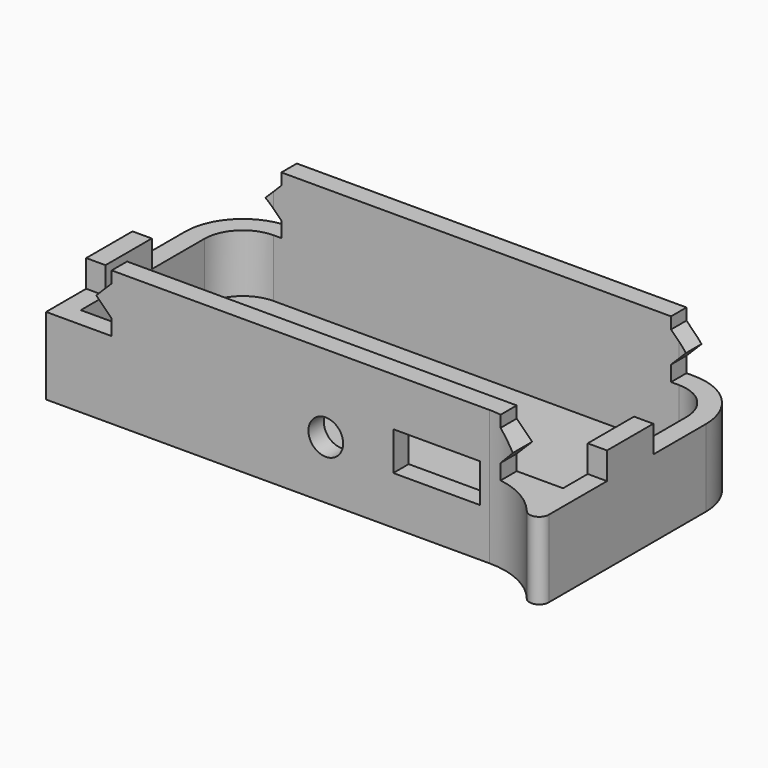
from build123d import *

# Parameters (mm, degrees)
PAD018_DEPTH    = 14
POCKET026_DEPTH = 12
FILLET004_R     = 1
POCKET029_DEPTH = 27.344146
SKETCH088_R     = 1.8
SKETCH088_W     = 9
SKETCH088_H     = 4
POCKET030_DEPTH = 2
SKETCH090_W     = 2
SKETCH090_H     = 6
PAD020_DEPTH    = 2.8


with BuildPart() as part:
    # Sketch079 → Pad018 (new body)
    with BuildSketch(Plane.XY):
        with BuildLine():
            Line((40, 105.4), (82, 105.4))
            ThreePointArc((88, 99.4), (86.242641, 103.642641), (82, 105.4))
            Line((88, 99.4), (88, 73.4))
            ThreePointArc((88, 73.4), (85.656854, 79.056854), (80, 81.4))
            Line((80, 81.4), (34, 81.4))
            Line((34, 81.4), (34, 99.4))
            ThreePointArc((40, 105.4), (35.757359, 103.642641), (34, 99.4))
        make_face()
    extrude(amount=PAD018_DEPTH)

    # Sketch076 → Pocket026 (cut)
    with BuildSketch(Plane.XY.offset(2)):
        with BuildLine():
            Line((40, 103.4), (82, 103.4))
            ThreePointArc((86, 99.4), (84.828427, 102.228427), (82, 103.4))
            Line((86, 99.4), (86, 83.4))
            Line((86, 83.4), (36, 83.4))
            Line((36, 83.4), (36, 99.4))
            ThreePointArc((40, 103.4), (37.171573, 102.228427), (36, 99.4))
        make_face()
    extrude(amount=POCKET026_DEPTH, mode=Mode.SUBTRACT)

    # Fillet004
    fillet004_edges = [part.edges().sort_by_distance(p)[0] for p in [
        (88, 73.4, 7),
    ]]
    fillet(fillet004_edges, radius=FILLET004_R)

    # Sketch087 (on DatumPlane) → Pocket029 (cut, through all)
    with BuildSketch(Plane(origin=(0, 105.4, 0), x_dir=(-1, 0, 0), z_dir=(0, 1, 0))):
        Polygon((-88, 14), (-81.2, 14), (-81.2, 12.8), (-82.8, 11.2), (-81.2, 9.6), (-81.2, 8), (-88, 8), align=None)
        Polygon((-40.8, 14), (-34, 14), (-34, 8), (-40.8, 8), (-40.8, 9.6), (-39.2, 11.2), (-40.8, 12.8), align=None)
    extrude(amount=-POCKET029_DEPTH, mode=Mode.SUBTRACT)

    # Sketch088 (on DatumPlane) → Pocket030 (cut)
    with BuildSketch(Plane.XZ.offset(-81.4)):
        with Locations((63, 6)):
            Circle(SKETCH088_R)
        with Locations((74.5, 7)):
            Rectangle(SKETCH088_W, SKETCH088_H)
    extrude(amount=-POCKET030_DEPTH, mode=Mode.SUBTRACT)

    # Sketch090 (on DatumPlane) → Pad020 (join)
    with BuildSketch(Plane.XY.offset(8)):
        with Locations((35, 89.6)):
            Rectangle(SKETCH090_W, SKETCH090_H)
        with Locations((87, 89.6)):
            Rectangle(SKETCH090_W, SKETCH090_H)
    extrude(amount=PAD020_DEPTH)


solid = part.part
